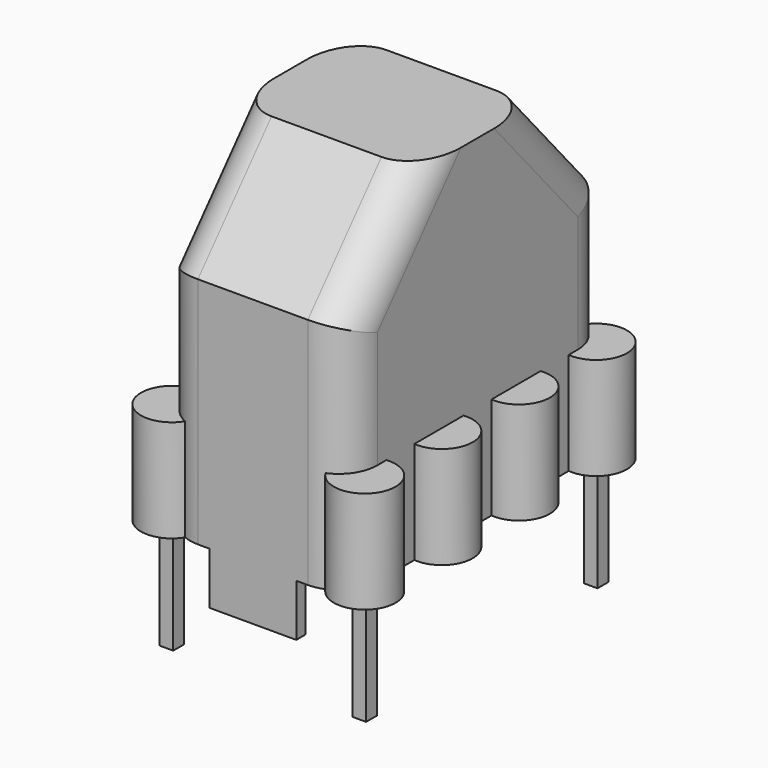
from build123d import *

# Parameters (mm, degrees)
BOX005_W               = 0.7
BOX005_H               = 0.7
BOX005_DEPTH           = 6
BOX006_W               = 0.7
BOX006_H               = 0.7
BOX006_DEPTH           = 6
BOX007_W               = 0.7
BOX007_H               = 0.7
BOX007_DEPTH           = 6
BOX004_W               = 0.7
BOX004_H               = 0.7
BOX004_DEPTH           = 6
BOX009_W               = 10
BOX009_H               = 26
BOX009_DEPTH           = 2.7
BOX010_W               = 8.5
BOX010_H               = 15.8
BOX010_DEPTH           = 14
FILLET001_R            = 2
BOX008_W               = 10
BOX008_H               = 26
BOX008_DEPTH           = 2.7
CYLINDER001_R          = 1.6
CYLINDER001_DEPTH      = 8
CYLINDER002_R          = 1.6
CYLINDER002_DEPTH      = 8
CYLINDER003_R          = 1.6
CYLINDER003_DEPTH      = 8
CYLINDER004_R          = 1.6
CYLINDER004_DEPTH      = 8
CYLINDER005_R          = 1.6
CYLINDER005_DEPTH      = 8
CYLINDER006_R          = 1.6
CYLINDER006_DEPTH      = 8
CYLINDER007_R          = 1.6
CYLINDER007_DEPTH      = 8
CYLINDER_R             = 1.6
CYLINDER_DEPTH         = 8
BOX003_W               = 10
BOX003_H               = 10
BOX003_DEPTH           = 10
BOX003_ROLL_ANGLE      = 40.999967
BOX003_PLACEMENT_ANGLE = 180
BOX002_W               = 10
BOX002_H               = 10
BOX002_DEPTH           = 10
BOX002_ROLL_ANGLE      = 40.999967
BOX001_W               = 9.7
BOX001_H               = 17
BOX001_DEPTH           = 20.299999
FILLET_R               = 2


with BuildPart() as pin001:
    # Box005 → Box005 (new body)
    with BuildSketch(Plane(origin=(-5.35, 7.15, -3), x_dir=(1, 0, 0), z_dir=(0, 0, 1))):
        with Locations((0.35, 0.35)):
            Rectangle(BOX005_W, BOX005_H)
    extrude(amount=BOX005_DEPTH)


with BuildPart() as pin002:
    # Box006 → Box006 (new body)
    with BuildSketch(Plane(origin=(-5.35, -7.85, -3), x_dir=(1, 0, 0), z_dir=(0, 0, 1))):
        with Locations((0.35, 0.35)):
            Rectangle(BOX006_W, BOX006_H)
    extrude(amount=BOX006_DEPTH)


with BuildPart() as pin003:
    # Box007 → Box007 (new body)
    with BuildSketch(Plane(origin=(4.65, -7.85, -3), x_dir=(1, 0, 0), z_dir=(0, 0, 1))):
        with Locations((0.35, 0.35)):
            Rectangle(BOX007_W, BOX007_H)
    extrude(amount=BOX007_DEPTH)


with BuildPart() as pins:
    # Box004 → Box004 (new body)
    with BuildSketch(Plane(origin=(4.65, 7.15, -3), x_dir=(1, 0, 0), z_dir=(0, 0, 1))):
        with Locations((0.35, 0.35)):
            Rectangle(BOX004_W, BOX004_H)
    extrude(amount=BOX004_DEPTH)

    # Fusion003: union Pin001, Pin002, Pin003
    add(pin001.part)
    add(pin002.part)
    add(pin003.part)


with BuildPart() as box009:
    # Box009 → Box009 (new body)
    with BuildSketch(Plane(origin=(-2.25, 13, 0), x_dir=(-1, 0, 0), z_dir=(0, 0, 1))):
        with Locations((5, 13)):
            Rectangle(BOX009_W, BOX009_H)
    extrude(amount=BOX009_DEPTH)


with BuildPart() as fillet001:
    # Box010 → Box010 (new body)
    with BuildSketch(Plane(origin=(-4.25, -7.9, 0), x_dir=(1, 0, 0), z_dir=(0, 0, 1))):
        with Locations((4.25, 7.9)):
            Rectangle(BOX010_W, BOX010_H)
    extrude(amount=BOX010_DEPTH)

    # Fillet001
    fillet001_edges = [fillet001.edges().sort_by_distance(p)[0] for p in [
        (-4.25, -7.9, 7),
        (-4.25, 7.9, 7),
        (4.25, -7.9, 7),
        (4.25, 7.9, 7),
    ]]
    fillet(fillet001_edges, radius=FILLET001_R)


with BuildPart() as fusion004:
    # Box008 → Box008 (new body)
    with BuildSketch(Plane(origin=(2.25, -13, 0), x_dir=(1, 0, 0), z_dir=(0, 0, 1))):
        with Locations((5, 13)):
            Rectangle(BOX008_W, BOX008_H)
    extrude(amount=BOX008_DEPTH)

    # Fusion004: union Box009, Fillet001
    add(box009.part)
    add(fillet001.part)


with BuildPart() as cylinder001:
    # Cylinder001 → Cylinder001 (new body)
    with BuildSketch(Plane(origin=(-5, 2.5, 0), x_dir=(1, 0, 0), z_dir=(0, 0, 1))):
        Circle(CYLINDER001_R)
    extrude(amount=CYLINDER001_DEPTH)


with BuildPart() as cylinder002:
    # Cylinder002 → Cylinder002 (new body)
    with BuildSketch(Plane(origin=(-5, -2.5, 0), x_dir=(1, 0, 0), z_dir=(0, 0, 1))):
        Circle(CYLINDER002_R)
    extrude(amount=CYLINDER002_DEPTH)


with BuildPart() as cylinder003:
    # Cylinder003 → Cylinder003 (new body)
    with BuildSketch(Plane(origin=(-5, -7.5, 0), x_dir=(1, 0, 0), z_dir=(0, 0, 1))):
        Circle(CYLINDER003_R)
    extrude(amount=CYLINDER003_DEPTH)


with BuildPart() as cylinder004:
    # Cylinder004 → Cylinder004 (new body)
    with BuildSketch(Plane(origin=(5, 7.5, 0), x_dir=(1, 0, 0), z_dir=(0, 0, 1))):
        Circle(CYLINDER004_R)
    extrude(amount=CYLINDER004_DEPTH)


with BuildPart() as cylinder005:
    # Cylinder005 → Cylinder005 (new body)
    with BuildSketch(Plane(origin=(5, 2.5, 0), x_dir=(1, 0, 0), z_dir=(0, 0, 1))):
        Circle(CYLINDER005_R)
    extrude(amount=CYLINDER005_DEPTH)


with BuildPart() as cylinder006:
    # Cylinder006 → Cylinder006 (new body)
    with BuildSketch(Plane(origin=(5, -2.5, 0), x_dir=(1, 0, 0), z_dir=(0, 0, 1))):
        Circle(CYLINDER006_R)
    extrude(amount=CYLINDER006_DEPTH)


with BuildPart() as cylinder007:
    # Cylinder007 → Cylinder007 (new body)
    with BuildSketch(Plane(origin=(5, -7.5, 0), x_dir=(1, 0, 0), z_dir=(0, 0, 1))):
        Circle(CYLINDER007_R)
    extrude(amount=CYLINDER007_DEPTH)


with BuildPart() as pinholder:
    # Cylinder → Cylinder (new body)
    with BuildSketch(Plane(origin=(-5, 7.5, 0), x_dir=(1, 0, 0), z_dir=(0, 0, 1))):
        Circle(CYLINDER_R)
    extrude(amount=CYLINDER_DEPTH)

    # Fusion001: union Cylinder001, Cylinder002, Cylinder003, Cylinder004, Cylinder005, Cylinder006, Cylinder007
    add(cylinder001.part)
    add(cylinder002.part)
    add(cylinder003.part)
    add(cylinder004.part)
    add(cylinder005.part)
    add(cylinder006.part)
    add(cylinder007.part)


with BuildPart() as box003:
    # Box003 → Box003 (new body)
    with BuildSketch(Plane.XY):
        with Locations((5, 5)):
            Rectangle(BOX003_W, BOX003_H)
    extrude(amount=BOX003_DEPTH)


with BuildPart() as box003_1:
    # Box003 roll: moved
    add(box003.part.rotate(Axis((0, 0, 0), (1, 0, 0)), BOX003_ROLL_ANGLE))


with BuildPart() as box003_2:
    # Box003 placement: moved
    add(box003_1.part.moved(Location((10, -0.7, 14))).rotate(Axis((10, -0.7, 14), (0, 0, 1)), BOX003_PLACEMENT_ANGLE))


with BuildPart() as fusion:
    # Box002 → Box002 (new body)
    with BuildSketch(Plane.XY):
        with Locations((5, 5)):
            Rectangle(BOX002_W, BOX002_H)
    extrude(amount=BOX002_DEPTH)


with BuildPart() as fusion_1:
    # Box002 roll: moved
    add(fusion.part.rotate(Axis((0, 0, 0), (1, 0, 0)), BOX002_ROLL_ANGLE))


with BuildPart() as fusion_2:
    # Box002 placement: moved
    add(fusion_1.part.moved(Location((0, 17.7, 14))))

    # Fusion: union Box003
    add(box003_2.part)


with BuildPart() as obj1:
    # Box001 → Box001 (new body)
    with BuildSketch(Plane.XY):
        with Locations((4.85, 8.5)):
            Rectangle(BOX001_W, BOX001_H)
    extrude(amount=BOX001_DEPTH)

    # Cut: cut Fusion
    add(fusion_2.part, mode=Mode.SUBTRACT)

    # Fillet
    fillet_edges = [obj1.edges().sort_by_distance(p)[0] for p in [
        (0, 0, 7.402629),
        (0, 2.38825, 17.552629),
        (0, 14.61175, 17.552629),
        (0, 17, 7.402629),
        (9.7, 17, 7.402629),
        (9.7, 0, 7.402629),
        (9.7, 2.38825, 17.552629),
        (9.7, 14.61175, 17.552629),
    ]]
    fillet(fillet_edges, radius=FILLET_R)


with BuildPart() as obj1_1:
    # Fillet placement: moved
    add(obj1.part.moved(Location((-4.85, -8.5, 0))))

    # Fusion002: union pinholder
    add(pinholder.part)

    # Cut001: cut Fusion004
    add(fusion004.part, mode=Mode.SUBTRACT)

    # Fusion005: union Pins
    add(pins.part)


solid = obj1_1.part
